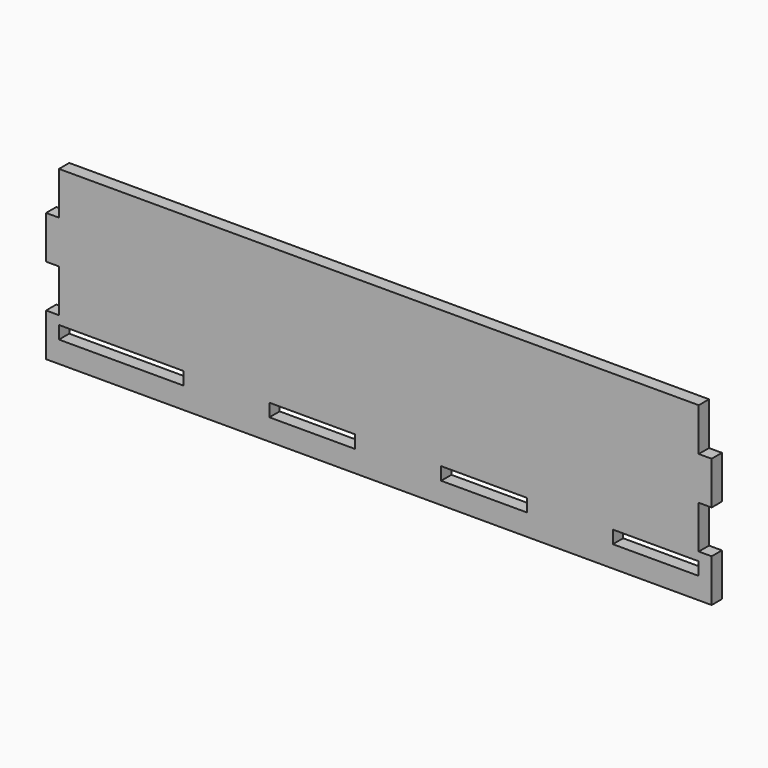
from build123d import *

# Parameters (mm, degrees)
SKETCH_W        = 155
SKETCH_H        = 40
PAD_DEPTH       = 3
SKETCH001_W     = 20
SKETCH001_H     = 3
SKETCH001_W_2   = 29
POCKET_DEPTH    = 3.001
SKETCH002_W     = 3
SKETCH002_H     = 10
POCKET001_DEPTH = 323.213429


with BuildPart() as part:
    # Sketch → Pad (new body)
    with BuildSketch(Plane.XZ):
        Rectangle(SKETCH_W, SKETCH_H)
    extrude(amount=PAD_DEPTH)

    # Sketch001 (on Face6 of Pad) → Pocket (cut, through all)
    with BuildSketch(Plane.XZ.offset(3)):
        with Locations((64.5, -13.5)):
            Rectangle(SKETCH001_W, SKETCH001_H)
        with Locations((24.5, -13.5)):
            Rectangle(SKETCH001_W, SKETCH001_H)
        with Locations((-15.5, -13.5)):
            Rectangle(SKETCH001_W, SKETCH001_H)
        with Locations((-60, -13.5)):
            Rectangle(SKETCH001_W_2, SKETCH001_H)
    extrude(amount=-POCKET_DEPTH, mode=Mode.SUBTRACT)

    # Sketch002 (on Face5 of Pocket) → Pocket001 (cut, through all)
    with BuildSketch(Plane.XZ.offset(3)):
        with Locations((-76, 15)):
            Rectangle(SKETCH002_W, SKETCH002_H)
        with Locations((-76, -5)):
            Rectangle(SKETCH002_W, SKETCH002_H)
    pocket001 = extrude(amount=-POCKET001_DEPTH, mode=Mode.SUBTRACT)

    # Mirrored: Pocket001 across Sketch002 V_Axis
    add(pocket001.mirror(Plane(origin=(0, -3, 0), x_dir=(0, -1, 0), z_dir=(1, 0, 0))), mode=Mode.SUBTRACT)


solid = part.part
